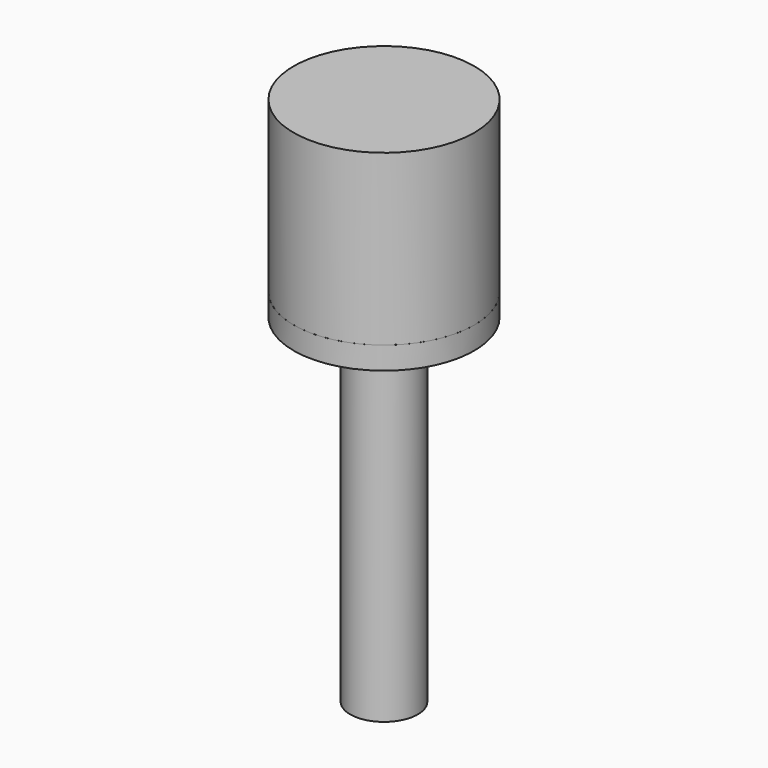
from build123d import *

# Parameters (mm, degrees)
F1_FACE_R = 8
F2_DEPTH  = 15


with BuildPart() as f1:
    # F0 (on Front) → F1 (revolve)
    with BuildSketch(Plane.XZ):
        Polygon((-3, 0), (0, 0), (0, 32), (-8, 32), (-8, 30), (-3, 30), align=None)
    revolve(axis=Axis((0, 0, 16), (0, 0, -1)))


with BuildPart() as f2:
    # F1_face (on face) → F2 (new body)
    with BuildSketch(Plane.XY.offset(32)):
        Circle(F1_FACE_R)
    extrude(amount=F2_DEPTH)


solid = Compound([f1.part, f2.part])
